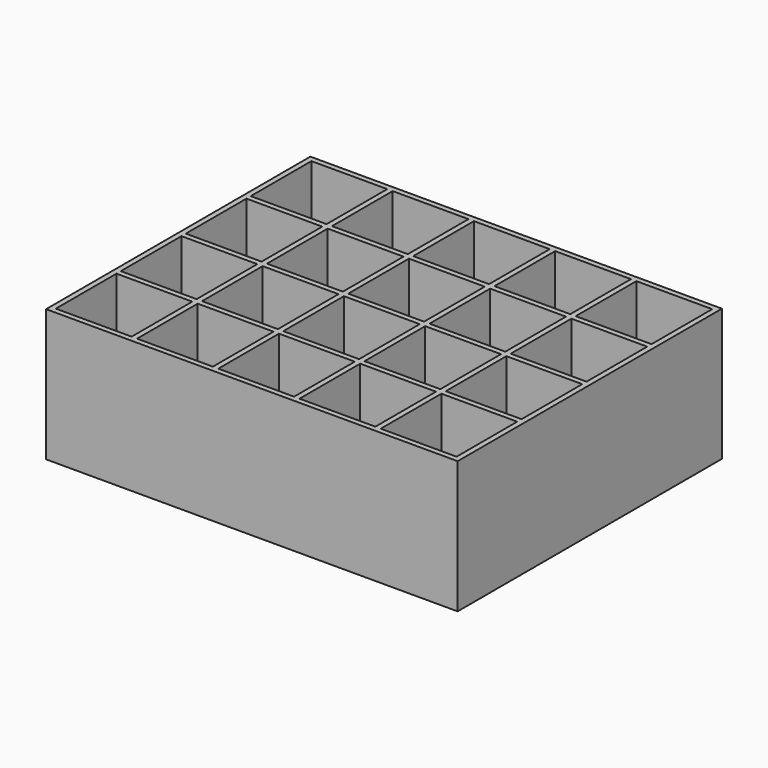
from build123d import *

# Parameters (mm, degrees)
F1_W     = 152.5
F1_H     = 122.4
F2_DEPTH = 4
F3_DEPTH = 45
F0_W     = 28.1
F0_H     = 28.1
F4_DEPTH = 45.001


with BuildPart() as f2:
    # F1 (on Top) → F2 (new body)
    with BuildSketch(Plane.XY):
        with Locations((74.25, 31.1)):
            Rectangle(F1_W, F1_H)
    extrude(amount=-F2_DEPTH)

    # F1 (on Top) → F3 (join)
    with BuildSketch(Plane.XY):
        with Locations((74.25, 31.1)):
            Rectangle(F1_W, F1_H)
    extrude(amount=F3_DEPTH)

    # F0 (on Top) → F4 (cut, through all)
    with BuildSketch(Plane.XY):
        with Locations((14.05, -14.05)):
            Rectangle(F0_W, F0_H)
        with Locations((14.05, 16.05)):
            Rectangle(F0_W, F0_H)
        with Locations((14.05, 46.15)):
            Rectangle(F0_W, F0_H)
        with Locations((14.05, 76.25)):
            Rectangle(F0_W, F0_H)
        with Locations((44.15, -14.05)):
            Rectangle(F0_W, F0_H)
        with Locations((44.15, 16.05)):
            Rectangle(F0_W, F0_H)
        with Locations((44.15, 46.15)):
            Rectangle(F0_W, F0_H)
        with Locations((44.15, 76.25)):
            Rectangle(F0_W, F0_H)
        with Locations((74.25, -14.05)):
            Rectangle(F0_W, F0_H)
        with Locations((74.25, 16.05)):
            Rectangle(F0_W, F0_H)
        with Locations((74.25, 46.15)):
            Rectangle(F0_W, F0_H)
        with Locations((74.25, 76.25)):
            Rectangle(F0_W, F0_H)
        with Locations((104.35, -14.05)):
            Rectangle(F0_W, F0_H)
        with Locations((104.35, 16.05)):
            Rectangle(F0_W, F0_H)
        with Locations((104.35, 46.15)):
            Rectangle(F0_W, F0_H)
        with Locations((104.35, 76.25)):
            Rectangle(F0_W, F0_H)
        with Locations((134.45, -14.05)):
            Rectangle(F0_W, F0_H)
        with Locations((134.45, 16.05)):
            Rectangle(F0_W, F0_H)
        with Locations((134.45, 46.15)):
            Rectangle(F0_W, F0_H)
        with Locations((134.45, 76.25)):
            Rectangle(F0_W, F0_H)
    extrude(amount=F4_DEPTH, mode=Mode.SUBTRACT)


solid = f2.part
